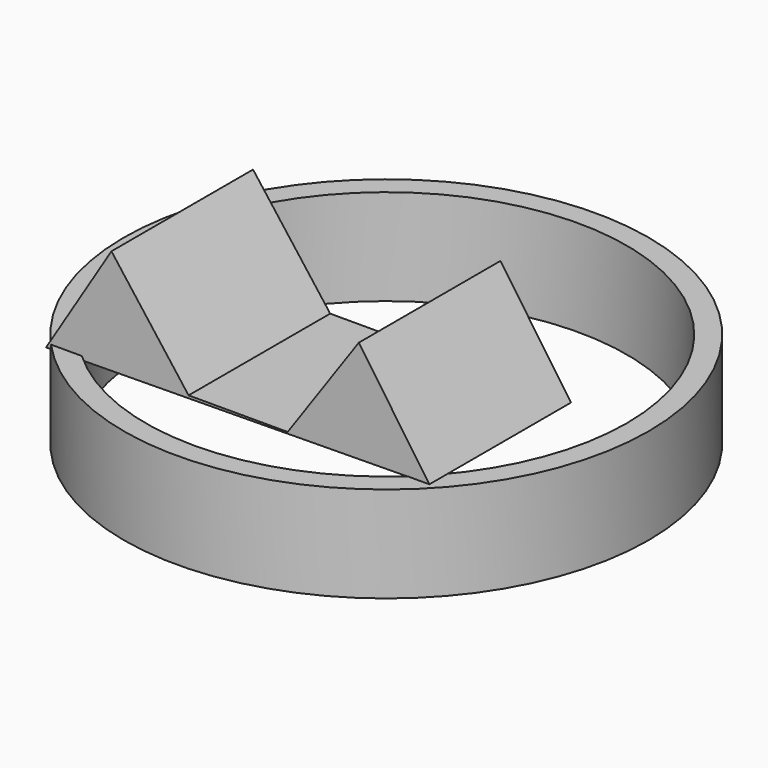
from build123d import *

# Parameters (mm, degrees)
F0_R     = 76.420931
F0_R_2   = 70.062958
F1_DEPTH = 27.94
F3_DEPTH = 51.562


with BuildPart() as f1:
    # F0 (on Top) → F1 (new body)
    with BuildSketch(Plane.XY):
        Circle(F0_R)
        Circle(F0_R_2, mode=Mode.SUBTRACT)
    extrude(amount=F1_DEPTH)

    # F2 (on Front) → F3 (join)
    with BuildSketch(Plane.XZ):
        Polygon((-38.800031, 57.597559), (-57.838555, 26.750332), (53.81551, 27.955303), (33.257172, 57.597559), (12.531687, 27.955303), (-16.329287, 27.955303), align=None)
    extrude(amount=F3_DEPTH)


solid = f1.part
